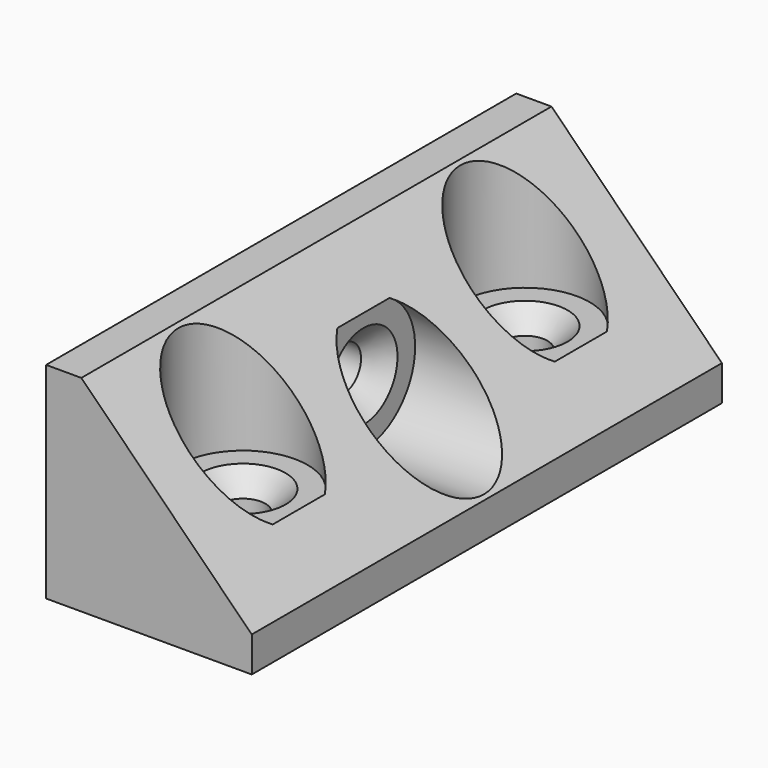
from build123d import *

# Parameters (mm, degrees)
F1_DEPTH        = 50
F3_R            = 5.5
F4_DEPTH        = 10.5
F6_R            = 5.5
F7_DEPTH        = 10.5
F9_D            = 3.8
F9_CSINK_D      = 7.25
F9_CSINK_ANGLE  = 90
F11_D           = 3.8
F11_CSINK_D     = 7.25
F11_CSINK_ANGLE = 90


with BuildPart() as f1:
    # F0 (on Front) → F1 (new body)
    with BuildSketch(Plane.XZ):
        Polygon((3, 17.5), (0, 17.5), (0, 0), (17.5, 0), (17.5, 3), align=None)
    extrude(amount=-F1_DEPTH)

    # F3 (on offset) → F4 (cut)
    with BuildSketch(Plane.XY.offset(17.5)):
        with Locations((8.75, 40)):
            Circle(F3_R)
        with Locations((8.75, 10)):
            Circle(F3_R)
    extrude(amount=-F4_DEPTH, mode=Mode.SUBTRACT)

    # F6 (on offset) → F7 (cut)
    with BuildSketch(Plane.YZ.offset(17.5)):
        with Locations((25, 8.75)):
            Circle(F6_R)
    extrude(amount=-F7_DEPTH, mode=Mode.SUBTRACT)

    # F9 (through all)
    with Locations(Plane.XY.offset(7)):
        with Locations((8.75, 40), (8.75, 10)):
            CounterSinkHole(F9_D / 2, F9_CSINK_D / 2, counter_sink_angle=F9_CSINK_ANGLE)

    # F11 (through all)
    with Locations(Plane.YZ.offset(7)):
        with Locations((25, 8.75)):
            CounterSinkHole(F11_D / 2, F11_CSINK_D / 2, counter_sink_angle=F11_CSINK_ANGLE)


solid = f1.part
